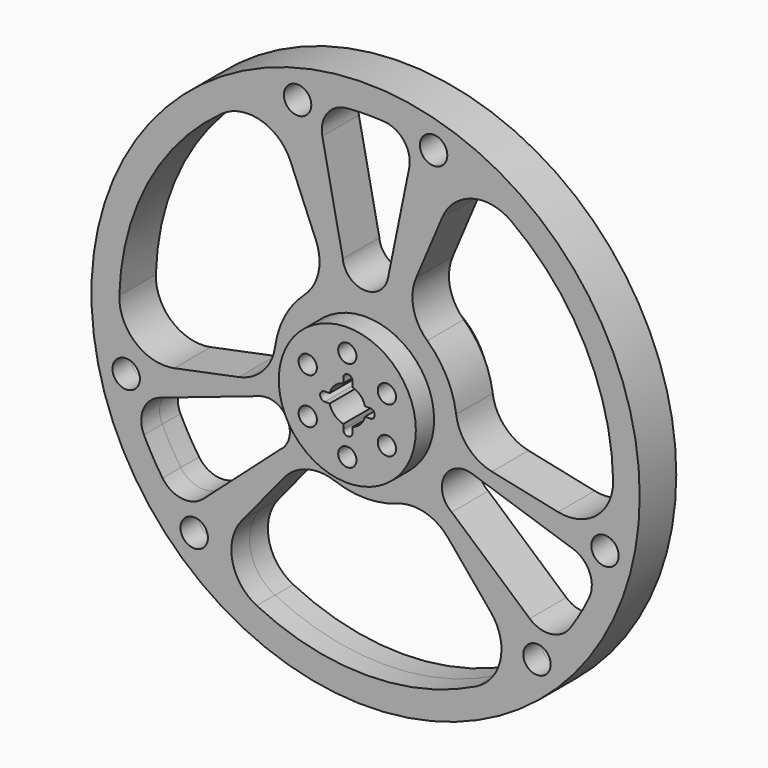
from build123d import *

# Parameters (mm, degrees)
F0_R     = 1524
F0_R_2   = 76.2
F1_DEPTH = 127
F0_R_3   = 50.8
F2_DEPTH = 254


with BuildPart() as f1:
    # F0 (on Front) → F1 (new body, symmetric)
    with BuildSketch(Plane.XZ):
        Circle(F0_R)
        with Locations((-952.8111070946, -986.6362590277)):
            Circle(F0_R_2, mode=Mode.SUBTRACT)
        with BuildLine():
            Line((-1143.7965026229, -387.4655521336), (-588.6805165913, -199.4178342636))
            ThreePointArc((-588.6805165913, -199.4178342636), (-442.520025125, -248.8724251651), (-451.9641038458, -402.8836429515))
            ThreePointArc((-451.9641038458, -402.8836429515), (-463.4258069525, -414.5059633548), (-476.2835619446, -424.5621607587))
            Line((-476.2835619446, -424.5621607587), (-901.6019720221, -803.6936648058))
            ThreePointArc((-901.6019720221, -803.6936648058), (-1021.3564997553, -841.2225705506), (-1128.6707375108, -776.1593700915))
            ThreePointArc((-1128.6707375108, -776.1593700915), (-1183.6872168804, -689.1657048273), (-1232.0321689731, -598.2950472668))
            ThreePointArc((-1232.0321689731, -598.2950472668), (-1235.4841914332, -472.9715202977), (-1143.7965026229, -387.4655521336))
        make_face(mode=Mode.SUBTRACT)
        with Locations((-1330.8753043332, -331.8098608877)):
            Circle(F0_R_2, mode=Mode.SUBTRACT)
        with BuildLine():
            ThreePointArc((174.8849222318, -476.9478629536), (330.4077663836, -469.9896388327), (460.778676584, -555.0731137822))
            Line((460.778676584, -555.0731137822), (696.6967648583, -839.2698323169))
            ThreePointArc((696.6967648583, -839.2698323169), (749.7606093742, -1054.0759440281), (614.2520309713, -1228.9898154122))
            ThreePointArc((614.2520309713, -1228.9898154122), (4.8103986091, -1372.3271678538), (-604.9128828203, -1230.1926542956))
            ThreePointArc((-604.9128828203, -1230.1926542956), (-740.6356674919, -1056.1545978866), (-688.9167511711, -841.5967430963))
            Line((-688.9167511711, -841.5967430963), (-455.0645697304, -555.9174735301))
            ThreePointArc((-455.0645697304, -555.9174735301), (-326.4876801695, -472.0690703197), (-173.086436551, -477.6034814384))
            ThreePointArc((-173.086436551, -477.6034814384), (0.9571293462, -507.9990983293), (174.8849222318, -476.9478629536))
        make_face(mode=Mode.SUBTRACT)
        with Locations((952.7757347485, -986.6566812613)):
            Circle(F0_R_2, mode=Mode.SUBTRACT)
        with BuildLine():
            ThreePointArc((478.6650922411, -419.6753665297), (467.4157757038, -410.8800283769), (457.2249267603, -400.8774440313))
            ThreePointArc((457.2249267603, -400.8774440313), (444.5887394314, -246.2805723115), (590.8982978771, -194.7696115053))
            Line((590.8982978771, -194.7696115053), (1152.9104225805, -380.0178743333))
            ThreePointArc((1152.9104225805, -380.0178743333), (1245.3520925112, -464.8941512431), (1242.7575100312, -590.3641192171))
            ThreePointArc((1242.7575100312, -590.3641192171), (1194.3225454899, -682.7175395624), (1139.0180104287, -771.128559471))
            ThreePointArc((1139.0180104287, -771.128559471), (1032.2794744601, -836.6310261267), (912.5064122897, -800.0509526302))
            Line((912.5064122897, -800.0509526302), (478.6650922411, -419.6753665297))
        make_face(mode=Mode.SUBTRACT)
        with Locations((1330.8399319871, -331.8302831213)):
            Circle(F0_R_2, mode=Mode.SUBTRACT)
        with BuildLine():
            Line((-417.1434495713, 1005.2388285774), (-275.3557077746, 663.5565041471))
            ThreePointArc((-275.3557077746, 663.5565041471), (-262.1993480359, 510.2440018254), (-339.9722397773, 377.4690400295))
            ThreePointArc((-339.9722397773, 377.4690400295), (-448.6911244451, 238.2021722072), (-503.136965464, 70.1227066198))
            ThreePointArc((-503.136965464, 70.1227066198), (-569.5433239478, -68.6865463955), (-703.905448196, -143.6840979371))
            Line((-703.905448196, -143.6840979371), (-1064.3584847667, -217.2612659234))
            ThreePointArc((-1064.3584847667, -217.2612659234), (-1278.5029983095, -162.9042128693), (-1369.0616699236, 38.6192073395))
            ThreePointArc((-1369.0616699236, 38.6192073395), (-1210.3073701707, 642.6008004961), (-800.4638911371, 1113.7961052854))
            ThreePointArc((-800.4638911371, 1113.7961052854), (-582.5346647555, 1152.2744624174), (-417.1434495713, 1005.2388285774))
        make_face(mode=Mode.SUBTRACT)
        with Locations((-378.0641972386, 1318.466542149)):
            Circle(F0_R_2, mode=Mode.SUBTRACT)
        with BuildLine():
            ThreePointArc((0, 381), (269.4076836321, 269.4076836321), (381, 0))
            ThreePointArc((381, 0), (-269.4076836321, -269.4076836321), (0, 381))
        make_face(mode=Mode.SUBTRACT)
        with BuildLine():
            ThreePointArc((702.7881345785, -149.0531378257), (569.0024149617, -73.032124965), (503.6575845569, 66.2799933489))
            ThreePointArc((503.6575845569, 66.2799933489), (450.496355812, 234.7701714446), (342.843725186, 374.8628817322))
            ThreePointArc((342.843725186, 374.8628817322), (266.0866302369, 508.2276504859), (280.4129097893, 661.4352576205))
            Line((280.4129097893, 661.4352576205), (426.4273841259, 1005.8527864771))
            ThreePointArc((426.4273841259, 1005.8527864771), (592.220847063, 1151.4238112085), (809.3661203131, 1112.3555901175))
            ThreePointArc((809.3661203131, 1112.3555901175), (1220.6400254417, 636.0894845276), (1376.2567888865, 26.3690147151))
            ThreePointArc((1376.2567888865, 26.3690147151), (1284.0297225985, -174.233870388), (1069.6028927462, -226.8502547881))
            Line((1069.6028927462, -226.8502547881), (702.7881345785, -149.0531378257))
        make_face(mode=Mode.SUBTRACT)
        with BuildLine():
            Line((-126.5133475018, 623.8926644111), (-240.3982590742, 1185.5089864839))
            ThreePointArc((-240.3982590742, 1185.5089864839), (-213.0638281245, 1307.0952675337), (-104.1343615013, 1367.6325796317))
            ThreePointArc((-104.1343615013, 1367.6325796317), (-0.6401302534, 1372.6309512112), (102.9361157728, 1369.802368675))
            ThreePointArc((102.9361157728, 1369.802368675), (214.1465094318, 1310.2194220345), (242.3453752198, 1187.2450216236))
            Line((242.3453752198, 1187.2450216236), (124.4340789334, 609.6))
            ThreePointArc((124.4340789334, 609.6), (7.0579729459, 508.1962736435), (-120.8466148532, 595.9475266016))
            ThreePointArc((-120.8466148532, 595.9475266016), (-124.4667442567, 609.7605551935), (-126.5133475018, 623.8926644111))
        make_face(mode=Mode.SUBTRACT)
        with Locations((378.0641972386, 1318.466542149)):
            Circle(F0_R_2, mode=Mode.SUBTRACT)
    extrude(amount=F1_DEPTH, both=True)

    # F0 (on Front) → F2 (join, symmetric)
    with BuildSketch(Plane.XZ):
        with BuildLine():
            ThreePointArc((0, 381), (-269.4076836321, -269.4076836321), (381, 0))
            ThreePointArc((381, 0), (269.4076836321, 269.4076836321), (0, 381))
        make_face()
        with Locations((-219.9704525612, -127)):
            Circle(F0_R_3, mode=Mode.SUBTRACT)
        with Locations((0, -254)):
            Circle(F0_R_3, mode=Mode.SUBTRACT)
        with Locations((219.9704525612, -127)):
            Circle(F0_R_3, mode=Mode.SUBTRACT)
        with Locations((-219.9704525612, 127)):
            Circle(F0_R_3, mode=Mode.SUBTRACT)
        with BuildLine():
            ThreePointArc((4.8374461237, -152.3232060948), (4.146851486, -152.3514107333), (3.4557451103, -152.3608146005))
            ThreePointArc((3.4557451103, -152.3608146005), (-14.5047671319, -144.9213268427), (-21.9442548897, -126.9608146005))
            Line((-21.9442548897, -126.9608146005), (-21.9442548897, -99.2044707569))
            ThreePointArc((-21.9442548897, -99.2044707569), (-70.8462752812, -72.835676737), (-98.5668945966, -24.6870717604))
            Line((-98.5668945966, -24.6870717604), (-125.7868047539, -24.6870717604))
            ThreePointArc((-125.7868047539, -24.6870717604), (-143.4934648386, -17.4978978988), (-151.176797533, 0))
            ThreePointArc((-151.176797533, 0), (-143.9976308923, 18.4195883244), (-125.7868047539, 26.1129282396))
            Line((-125.7868047539, 26.1129282396), (-98.1987297238, 26.1129282396))
            ThreePointArc((-98.1987297238, 26.1129282396), (-70.3165640491, 73.3471121168), (-21.9442548897, 99.2044707569))
            Line((-21.9442548897, 99.2044707569), (-21.9442548897, 126.9608146005))
            ThreePointArc((-21.9442548897, 126.9608146005), (-14.5047671319, 144.9213268427), (3.4557451103, 152.3608146005))
            ThreePointArc((3.4557451103, 152.3608146005), (4.146851486, 152.3514107333), (4.8374461237, 152.3232060948))
            ThreePointArc((4.8374461237, 152.3232060948), (21.8982938189, 144.4259912996), (28.8557451103, 126.9608146005))
            Line((28.8557451103, 126.9608146005), (28.8557451103, 97.4126550891))
            ThreePointArc((28.8557451103, 97.4126550891), (72.8607347762, 70.7965749084), (98.1942658211, 26.040937895))
            Line((98.1942658211, 26.040937895), (126.9986522205, 26.040937895))
            ThreePointArc((126.9986522205, 26.040937895), (144.8682936234, 18.6918635259), (152.3973583633, 0.897309244))
            ThreePointArc((152.3973583633, 0.897309244), (152.3983287541, 0.7691252019), (152.3986522205, 0.640937895))
            ThreePointArc((152.3986522205, 0.640937895), (144.9591644626, -17.3195743471), (126.9986522205, -24.759062105))
            Line((126.9986522205, -24.759062105), (98.5252522205, -24.759062105))
            ThreePointArc((98.5252522205, -24.759062105), (73.3204519507, -70.3202828193), (28.8557451103, -97.4126550891))
            Line((28.8557451103, -97.4126550891), (28.8557451103, -126.9608146005))
            ThreePointArc((28.8557451103, -126.9608146005), (21.8982938189, -144.4259912996), (4.8374461237, -152.3232060948))
        make_face(mode=Mode.SUBTRACT)
        with Locations((219.9704525612, 127)):
            Circle(F0_R_3, mode=Mode.SUBTRACT)
        with BuildLine():
            ThreePointArc((50.8, 254), (-35.9210244843, 218.0789755157), (0, 304.8))
            ThreePointArc((0, 304.8), (35.9210244843, 289.9210244843), (50.8, 254))
        make_face(mode=Mode.SUBTRACT)
    extrude(amount=F2_DEPTH, both=True)


solid = f1.part
